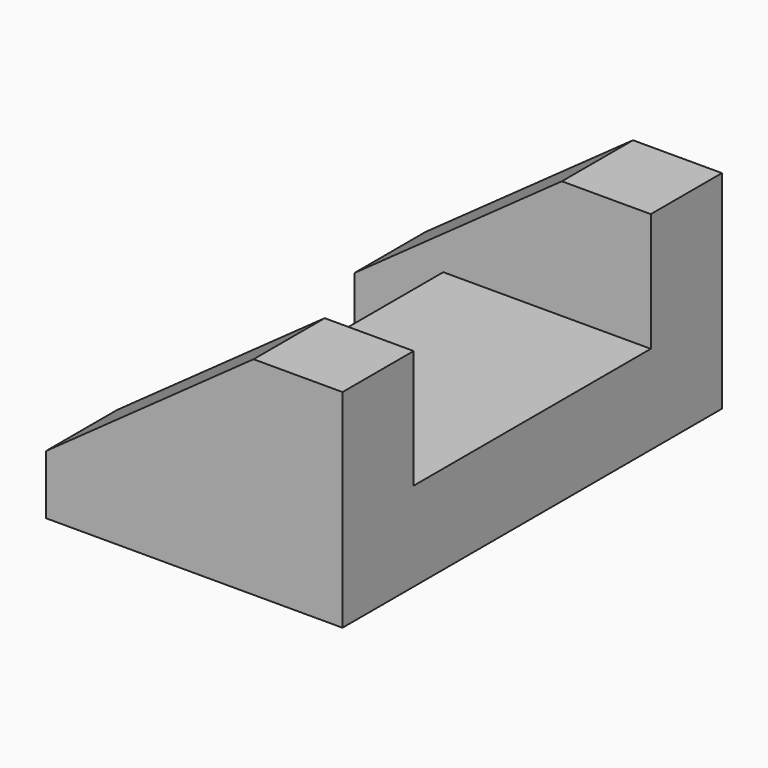
from build123d import *

# Parameters (mm, degrees)
F1_DEPTH = 19.05
F2_W     = 44.45
F2_H     = 19.05
F3_DEPTH = 63.5
F4_W     = 44.45
F4_H     = 19.05
F5_DEPTH = 19.05


with BuildPart() as f1:
    # F0 (on Front) → F1 (new body)
    with BuildSketch(Plane.XZ):
        Polygon((0, 12.7), (0, 0), (63.5, 0), (63.5, 44.45), (44.45, 44.45), align=None)
    extrude(amount=-F1_DEPTH)

    # F2 (on face) → F3 (join)
    with BuildSketch(Plane(origin=(0, 19.05, 0), x_dir=(-1, 0, 0), z_dir=(0, 1, 0))):
        with Locations((-41.275, 9.525)):
            Rectangle(F2_W, F2_H)
    extrude(amount=F3_DEPTH)

    # F4 (on face) → F5 (join)
    with BuildSketch(Plane(origin=(0, 82.55, 0), x_dir=(-1, 0, 0), z_dir=(0, 1, 0))):
        Polygon((-63.5, 44.45), (-63.5, 19.05), (-19.05, 19.05), (-19.05, 0), (0, 0), (0, 12.7), (-44.45, 44.45), align=None)
        with Locations((-41.275, 9.525)):
            Rectangle(F4_W, F4_H)
    extrude(amount=F5_DEPTH)


solid = f1.part
